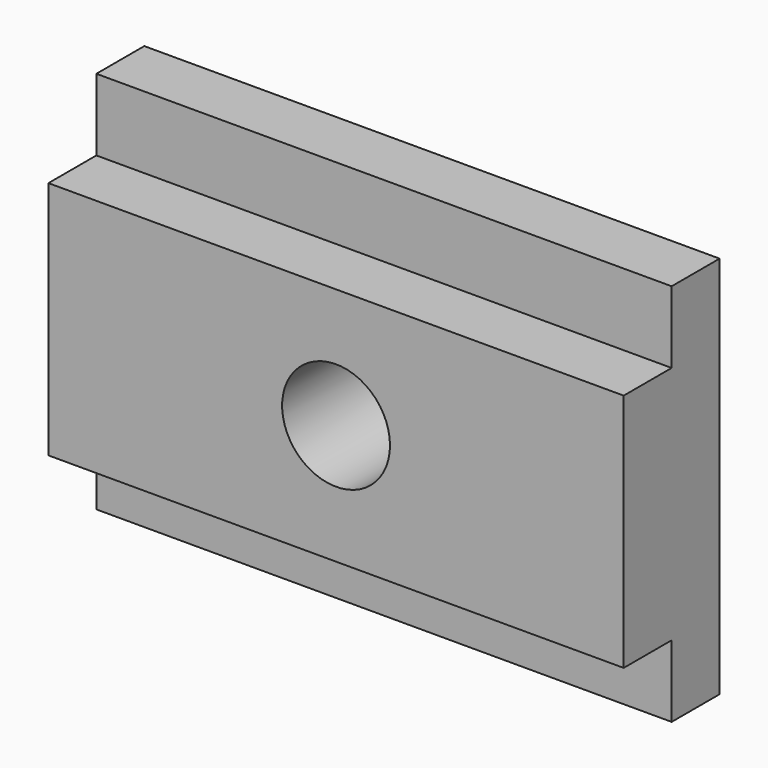
from build123d import *

# Parameters (mm, degrees)
F0_R     = 14.2875
F1_DEPTH = 31.75
F2_DEPTH = 15.875


with BuildPart() as f1:
    # F0 (on Front) → F1 (new body)
    with BuildSketch(Plane.XZ):
        Polygon((76.2, 31.75), (0, 31.75), (-76.2, 31.75), (-76.2, -31.75), (0, -31.75), (76.2, -31.75), align=None)
        Circle(F0_R, mode=Mode.SUBTRACT)
    extrude(amount=F1_DEPTH)

    # F0 (on Front) → F2 (join)
    with BuildSketch(Plane.XZ):
        Polygon((0, -31.75), (-76.2, -31.75), (-76.2, -50.8), (76.2, -50.8), (76.2, -31.75), align=None)
        Polygon((-76.2, 31.75), (0, 31.75), (76.2, 31.75), (76.2, 50.8), (-76.2, 50.8), align=None)
    extrude(amount=F2_DEPTH)


solid = f1.part
